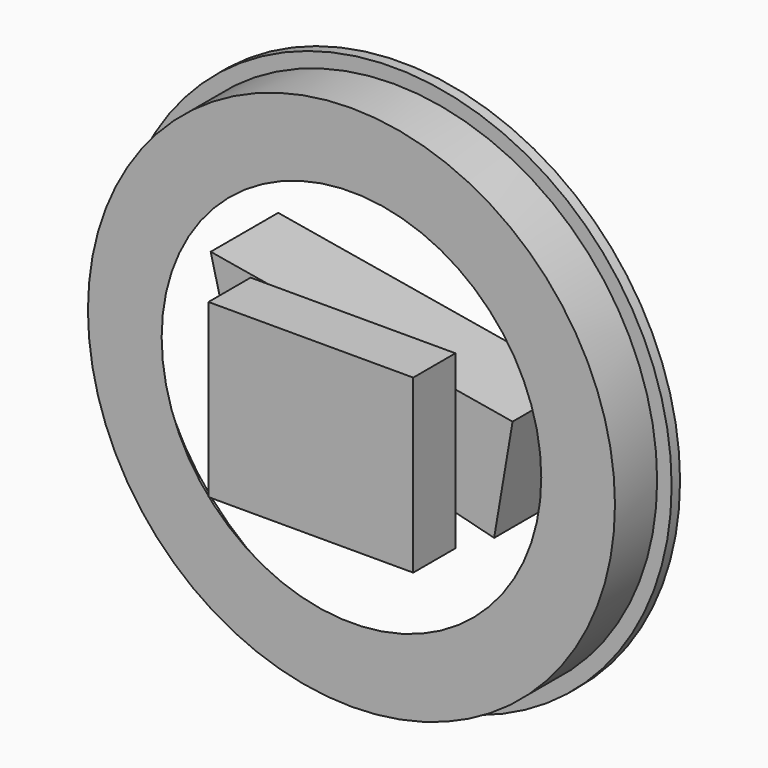
from build123d import *

# Parameters (mm, degrees)
F0_R      = 125
F1_DEPTH  = 150
F2_R      = 131.8750509278
F2_R_2    = 125
F3_DEPTH  = 5
F5_D      = 230
F5_DEPTH  = 10
F5_TIP    = 69.0989711882
F6_DEPTH  = 25
F7_DEPTH  = 150
F9_DEPTH  = 40
F10_W     = 97.1237495542
F10_H     = 81.4577117562
F11_DEPTH = 25


with BuildPart() as f1:
    # F0 (on Front) → F1 (new body)
    with BuildSketch(Plane.XZ):
        with Locations((-49.30036515, 42.8301356733)):
            Circle(F0_R)
    extrude(amount=F1_DEPTH)

    # F5
    with Locations(Plane(origin=(0, 0, 0), x_dir=(-1, 0, 0), z_dir=(0, 1, 0))):
        with Locations((49.30036515, 42.8301356733)):
            Hole(F5_D / 2, depth=F5_DEPTH)
            with Locations((0, 0, -(F5_DEPTH + F5_TIP / 2))):  # 118° drill point
                Cone(0, F5_D / 2, F5_TIP, mode=Mode.SUBTRACT)

    # F6 (add): a face of the model
    f6_faces = [f1.faces().sort_by_distance(p)[0] for p in [
        (-49.30036515, -150, 42.8301356733),
    ]]
    extrude(f6_faces, amount=F6_DEPTH)

    # F7 (cut): a face of the model
    f7_faces = [f1.faces().sort_by_distance(p)[0] for p in [
        (-49.30036515, -175, 42.8301356733),
    ]]
    extrude(f7_faces, amount=-F7_DEPTH, mode=Mode.SUBTRACT)


with BuildPart() as f3:
    # F2 (on face) → F3 (new body)
    with BuildSketch(Plane(origin=(0, 0, 0), x_dir=(-1, 0, 0), z_dir=(0, 1, 0))):
        with Locations((49.30036515, 42.8301356733)):
            Circle(F2_R)
        with Locations((49.30036515, 42.8301356733)):
            Circle(F2_R_2, mode=Mode.SUBTRACT)
    extrude(amount=F3_DEPTH)


with BuildPart() as f9:
    # F8 (on face) → F9 (new body)
    with BuildSketch(Plane(origin=(0, 5, 0), x_dir=(-1, 0, 0), z_dir=(0, 1, 0))):
        Polygon((129.1039586067, 21.7009484768), (140.0571018457, 66.1133304238), (-3.1293598004, 41.7301990092), (5.6249538695, -9.6782594538), align=None)
    extrude(amount=F9_DEPTH)


with BuildPart() as f11:
    # F10 (on face) → F11 (new body)
    with BuildSketch(Plane.XZ.offset(25)):
        with Locations((-48.5618747771, 40.7288558781)):
            Rectangle(F10_W, F10_H)
    extrude(amount=F11_DEPTH)


solid = Compound([f1.part, f3.part, f9.part, f11.part])
